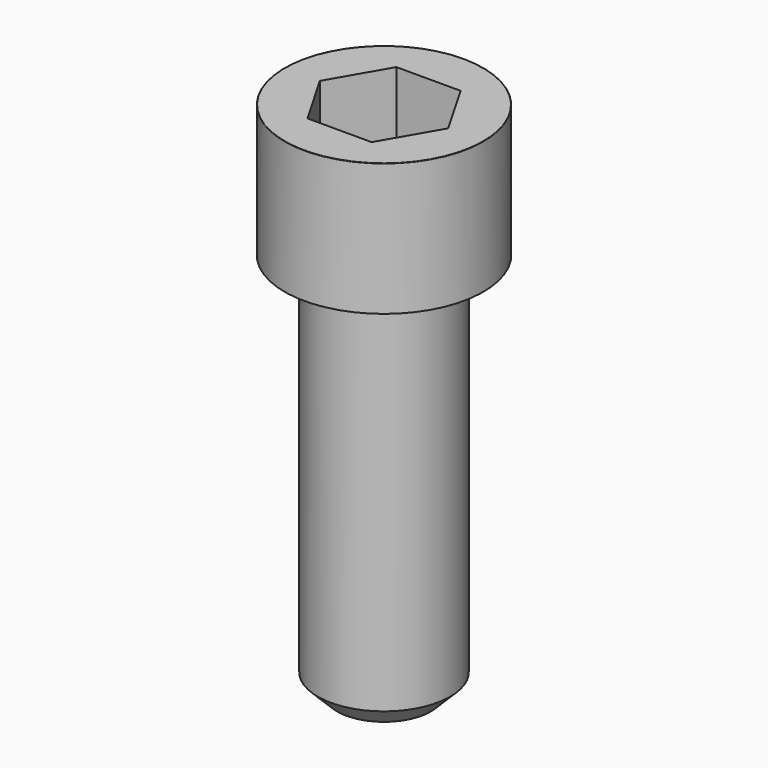
from build123d import *

# Parameters (mm, degrees)
POCKET_DEPTH = 10.07


with BuildPart() as part:
    # Sketch → Revolve (revolve)
    with BuildSketch(Plane.YZ):
        with BuildLine():
            Line((5.999, 0), (9, 0))
            Line((9, 0), (9, 11.97229))
            ThreePointArc((9, 11.97229), (8.991884, 11.991884), (8.97229, 12))
            Line((8.97229, 12), (0, 12))
            Line((0, -35), (0, 12))
            Line((4.25, -35), (0, -35))
            Line((6, -33.25), (4.25, -35))
            Line((6, -0.2), (6, -33.25))
            Line((5.999, 0), (6, -0.2))
        make_face()
    revolve(axis=Axis((0, 0, 0), (0, 0, 1)))

    # Sketch001 → Pocket (cut)
    with BuildSketch(Plane.XY.offset(12)):
        Polygon((5.813917, 0), (2.906959, 5.035), (-2.906959, 5.035), (-5.813917, 0), (-2.906959, -5.035), (2.906959, -5.035), align=None)
    extrude(amount=-POCKET_DEPTH, mode=Mode.SUBTRACT)


solid = part.part
